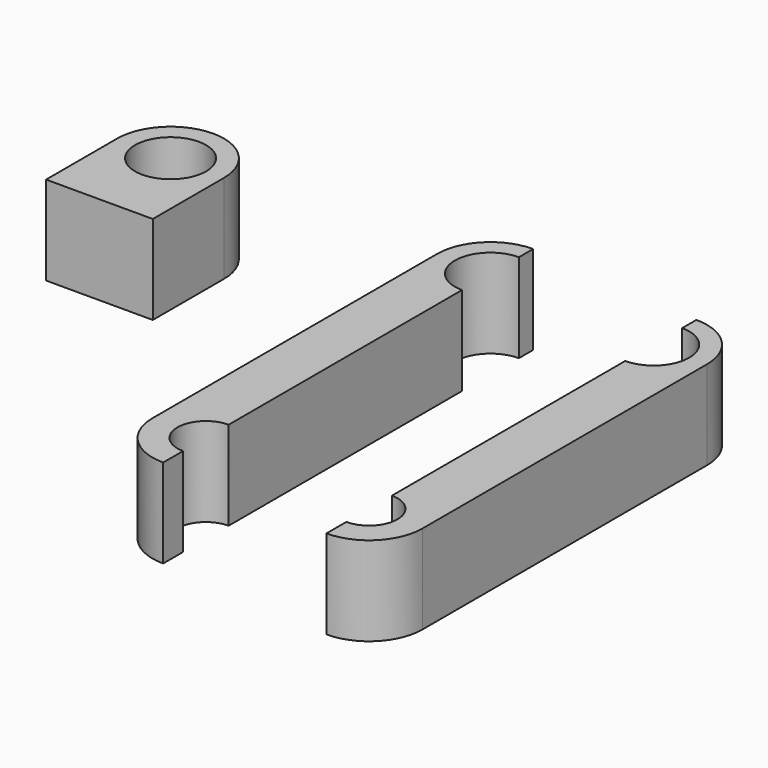
from build123d import *

# Parameters (mm, degrees)
F0_R     = 2
F1_DEPTH = 5
F3_DEPTH = 5
F5_DEPTH = 5


with BuildPart() as f1:
    # F0 (on Top) → F1 (new body)
    with BuildSketch(Plane.XY):
        with BuildLine():
            Line((3, -5), (3, 0))
            ThreePointArc((3, 0), (0, 3), (-3, 0))
            Line((-3, 0), (-3, -5))
            Line((-3, -5), (3, -5))
        make_face()
        Circle(F0_R, mode=Mode.SUBTRACT)
    extrude(amount=F1_DEPTH)


with BuildPart() as f3:
    # F2 (on Top) → F3 (new body)
    with BuildSketch(Plane.XY):
        with BuildLine():
            ThreePointArc((17.821388, -1.795078), (15.821388, 0.204922), (17.821388, 2.204922))
            Line((17.821388, 2.204922), (17.821388, 3.204922))
            ThreePointArc((17.821388, 3.204922), (15.700068, 2.326243), (14.821388, 0.204922))
            Line((14.821388, 0.204922), (14.821388, -19.795078))
            ThreePointArc((14.821388, -19.795078), (15.700068, -21.916398), (17.821388, -22.795078))
            Line((17.821388, -22.795078), (17.821388, -21.395078))
            ThreePointArc((17.821388, -21.395078), (16.221388, -19.795078), (17.821388, -18.195078))
            Line((17.821388, -18.195078), (17.821388, -1.795078))
        make_face()
    extrude(amount=F3_DEPTH)


with BuildPart() as f5:
    # F4 (on Top) → F5 (new body)
    with BuildSketch(Plane.XY):
        with BuildLine():
            ThreePointArc((27.630229, 1.416571), (29.630229, -0.583429), (27.630229, -2.583429))
            Line((27.630229, -2.583429), (27.630229, -18.983429))
            ThreePointArc((27.630229, -18.983429), (29.230229, -20.583429), (27.630229, -22.183429))
            Line((27.630229, -22.183429), (27.630229, -23.583429))
            ThreePointArc((27.630229, -23.583429), (29.751549, -22.704749), (30.630229, -20.583429))
            Line((30.630229, -20.583429), (30.630229, -0.583429))
            ThreePointArc((30.630229, -0.583429), (29.751549, 1.537892), (27.630229, 2.416571))
            Line((27.630229, 2.416571), (27.630229, 1.416571))
        make_face()
    extrude(amount=F5_DEPTH)


solid = Compound([f1.part, f3.part, f5.part])
